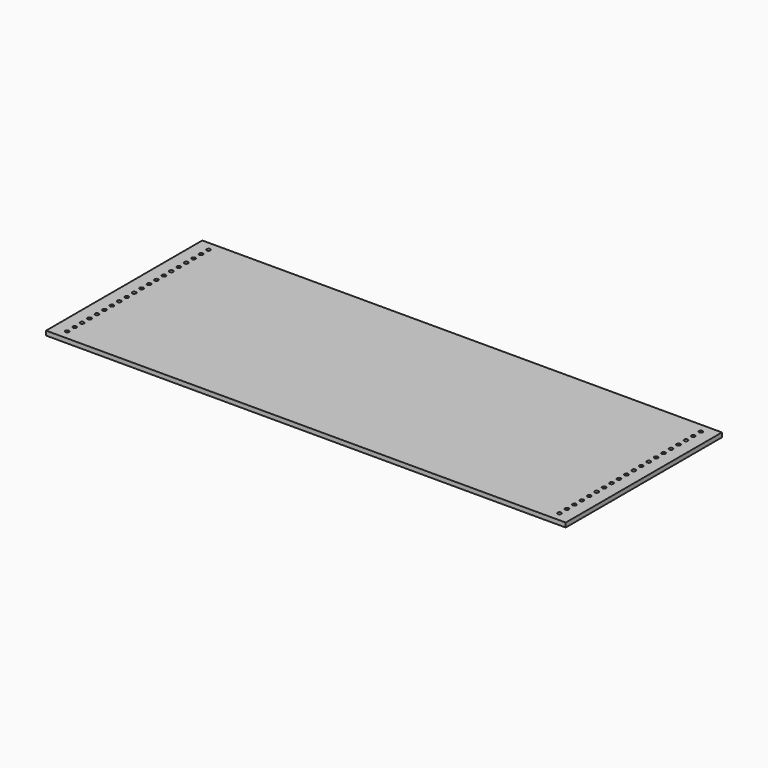
from build123d import *

# Parameters (mm, degrees)
F0_W     = 709.8
F0_H     = 266.7
F0_R     = 2.5527
F1_DEPTH = 6


with BuildPart() as f1:
    # F0 (on Top) → F1 (new body)
    with BuildSketch(Plane.XY):
        Rectangle(F0_W, F0_H)
        with Locations((-336.2, -120.65)):
            Circle(F0_R, mode=Mode.SUBTRACT)
        with Locations((-336.2, -107.95)):
            Circle(F0_R, mode=Mode.SUBTRACT)
        with Locations((-336.2, -95.25)):
            Circle(F0_R, mode=Mode.SUBTRACT)
        with Locations((-336.2, -82.55)):
            Circle(F0_R, mode=Mode.SUBTRACT)
        with Locations((-336.2, -69.85)):
            Circle(F0_R, mode=Mode.SUBTRACT)
        with Locations((-336.2, -57.15)):
            Circle(F0_R, mode=Mode.SUBTRACT)
        with Locations((-336.2, -44.45)):
            Circle(F0_R, mode=Mode.SUBTRACT)
        with Locations((-336.2, -31.75)):
            Circle(F0_R, mode=Mode.SUBTRACT)
        with Locations((-336.2, -19.05)):
            Circle(F0_R, mode=Mode.SUBTRACT)
        with Locations((-336.2, -6.35)):
            Circle(F0_R, mode=Mode.SUBTRACT)
        with Locations((336.2, -120.65)):
            Circle(F0_R, mode=Mode.SUBTRACT)
        with Locations((336.2, -107.95)):
            Circle(F0_R, mode=Mode.SUBTRACT)
        with Locations((336.2, -95.25)):
            Circle(F0_R, mode=Mode.SUBTRACT)
        with Locations((336.2, -82.55)):
            Circle(F0_R, mode=Mode.SUBTRACT)
        with Locations((336.2, -69.85)):
            Circle(F0_R, mode=Mode.SUBTRACT)
        with Locations((336.2, -57.15)):
            Circle(F0_R, mode=Mode.SUBTRACT)
        with Locations((336.2, -44.45)):
            Circle(F0_R, mode=Mode.SUBTRACT)
        with Locations((336.2, -31.75)):
            Circle(F0_R, mode=Mode.SUBTRACT)
        with Locations((336.2, -19.05)):
            Circle(F0_R, mode=Mode.SUBTRACT)
        with Locations((336.2, -6.35)):
            Circle(F0_R, mode=Mode.SUBTRACT)
        with Locations((-336.2, 6.35)):
            Circle(F0_R, mode=Mode.SUBTRACT)
        with Locations((-336.2, 19.05)):
            Circle(F0_R, mode=Mode.SUBTRACT)
        with Locations((-336.2, 31.75)):
            Circle(F0_R, mode=Mode.SUBTRACT)
        with Locations((-336.2, 44.45)):
            Circle(F0_R, mode=Mode.SUBTRACT)
        with Locations((-336.2, 57.15)):
            Circle(F0_R, mode=Mode.SUBTRACT)
        with Locations((-336.2, 69.85)):
            Circle(F0_R, mode=Mode.SUBTRACT)
        with Locations((-336.2, 82.55)):
            Circle(F0_R, mode=Mode.SUBTRACT)
        with Locations((-336.2, 95.25)):
            Circle(F0_R, mode=Mode.SUBTRACT)
        with Locations((-336.2, 107.95)):
            Circle(F0_R, mode=Mode.SUBTRACT)
        with Locations((-336.2, 120.65)):
            Circle(F0_R, mode=Mode.SUBTRACT)
        with Locations((336.2, 6.35)):
            Circle(F0_R, mode=Mode.SUBTRACT)
        with Locations((336.2, 19.05)):
            Circle(F0_R, mode=Mode.SUBTRACT)
        with Locations((336.2, 31.75)):
            Circle(F0_R, mode=Mode.SUBTRACT)
        with Locations((336.2, 44.45)):
            Circle(F0_R, mode=Mode.SUBTRACT)
        with Locations((336.2, 57.15)):
            Circle(F0_R, mode=Mode.SUBTRACT)
        with Locations((336.2, 69.85)):
            Circle(F0_R, mode=Mode.SUBTRACT)
        with Locations((336.2, 82.55)):
            Circle(F0_R, mode=Mode.SUBTRACT)
        with Locations((336.2, 95.25)):
            Circle(F0_R, mode=Mode.SUBTRACT)
        with Locations((336.2, 107.95)):
            Circle(F0_R, mode=Mode.SUBTRACT)
        with Locations((336.2, 120.65)):
            Circle(F0_R, mode=Mode.SUBTRACT)
    extrude(amount=F1_DEPTH)


solid = f1.part
